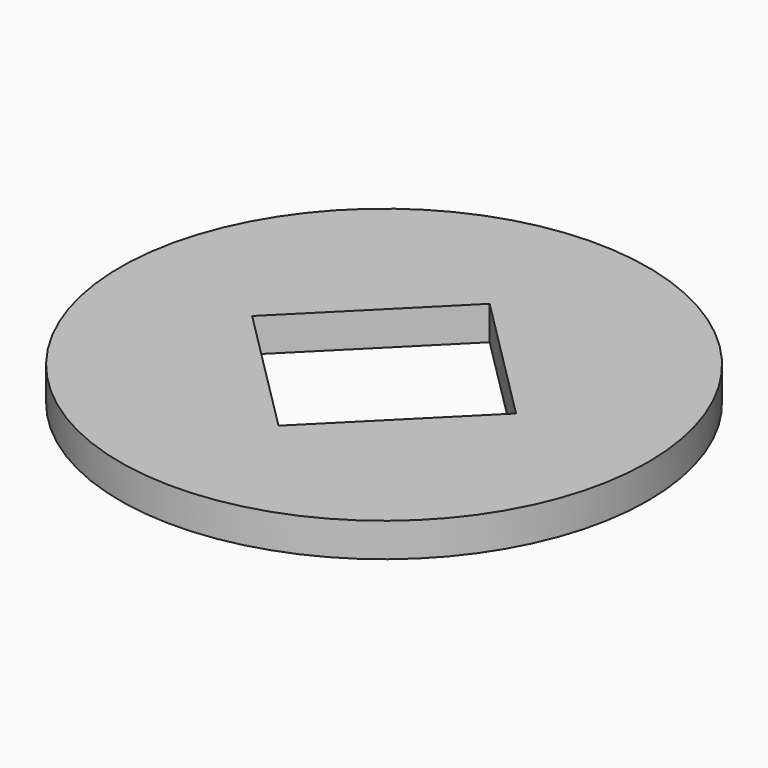
from build123d import *

# Parameters (mm, degrees)
F0_R     = 49.5
F1_DEPTH = 6.35


with BuildPart() as f1:
    # F0 (on Top) → F1 (new body)
    with BuildSketch(Plane.XY):
        Circle(F0_R)
        Polygon((-24.748737, 0), (0, 24.748737), (24.748737, 0), (0, -24.748737), align=None, mode=Mode.SUBTRACT)
    extrude(amount=F1_DEPTH)


solid = f1.part
